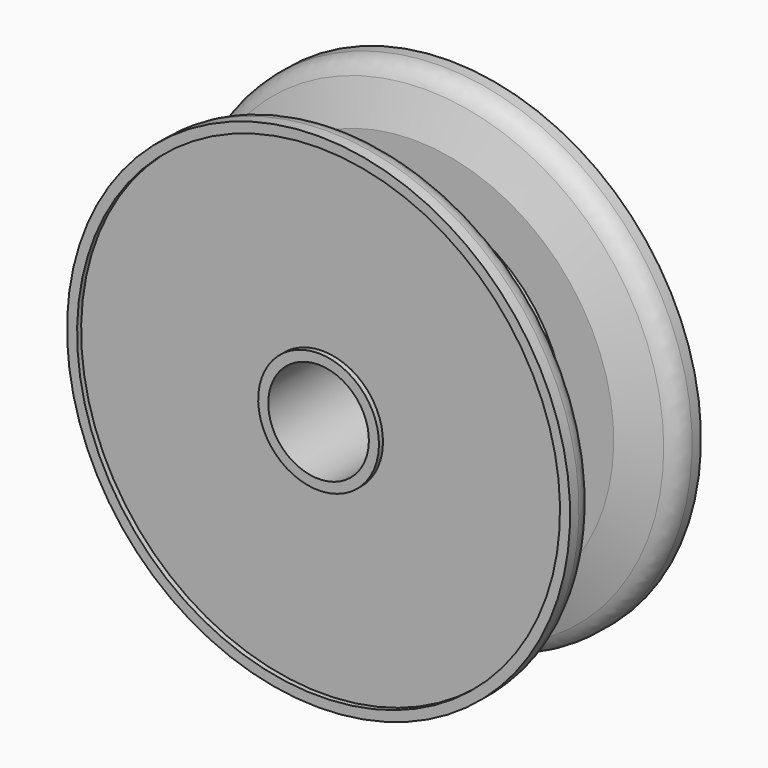
from build123d import *

# Parameters (mm, degrees)
F2_R = 2.54
F3_R = 1.27


with BuildPart() as f1:
    # F0 (on Right) → F1 (revolve)
    with BuildSketch(Plane.YZ):
        Polygon((-7.916564, 6.35), (7.171036, 6.35), (7.171036, 11.1125), (12.733636, 11.1125), (12.733636, 31.75), (9.558636, 31.75), (7.171036, 25.190123), (7.171036, 19.05), (-2.353964, 19.05), (-2.353964, 25.190123), (-4.741564, 31.75), (-7.916564, 31.75), (-7.916564, 30.48), (-7.281564, 30.48), (-7.281564, 7.62), (-7.916564, 7.62), align=None)
    revolve(axis=Axis((0, 2.81315, 0), (0, 1, 0)))

    # F2
    f2_edges = [f1.edges().sort_by_distance(p)[0] for p in [
        (0, 9.558636, -31.75),
        (0, -4.741564, -31.75),
    ]]
    fillet(f2_edges, radius=F2_R)

    # F3
    f3_edges = [f1.edges().sort_by_distance(p)[0] for p in [
        (0, 12.733636, -11.1125),
    ]]
    fillet(f3_edges, radius=F3_R)


solid = f1.part
